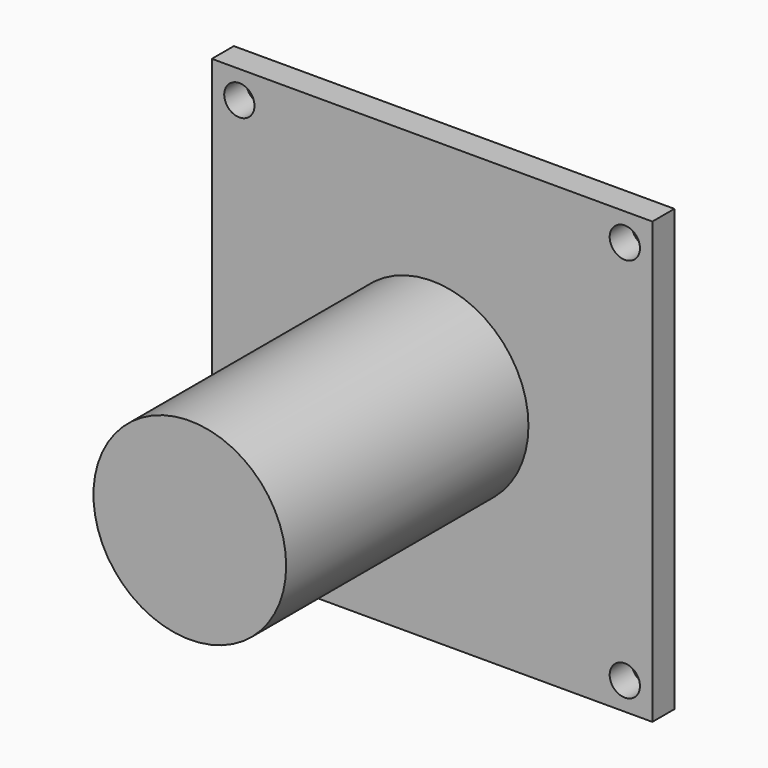
from build123d import *

# Parameters (mm, degrees)
F0_W     = 32
F0_H     = 32
F0_R     = 1.1
F0_R_2   = 7
F1_DEPTH = 2
F2_DEPTH = 24


with BuildPart() as f1:
    # F0 (on Front) → F1 (new body)
    with BuildSketch(Plane.XZ):
        Rectangle(F0_W, F0_H)
        with Locations((-14, -14)):
            Circle(F0_R, mode=Mode.SUBTRACT)
        with Locations((14, -14)):
            Circle(F0_R, mode=Mode.SUBTRACT)
        with Locations((-14, 14)):
            Circle(F0_R, mode=Mode.SUBTRACT)
        Circle(F0_R_2, mode=Mode.SUBTRACT)
        with Locations((14, 14)):
            Circle(F0_R, mode=Mode.SUBTRACT)
        Circle(F0_R_2)
    extrude(amount=F1_DEPTH)

    # F0 (on Front) → F2 (join)
    with BuildSketch(Plane.XZ):
        Circle(F0_R_2)
    extrude(amount=F2_DEPTH)


solid = f1.part
